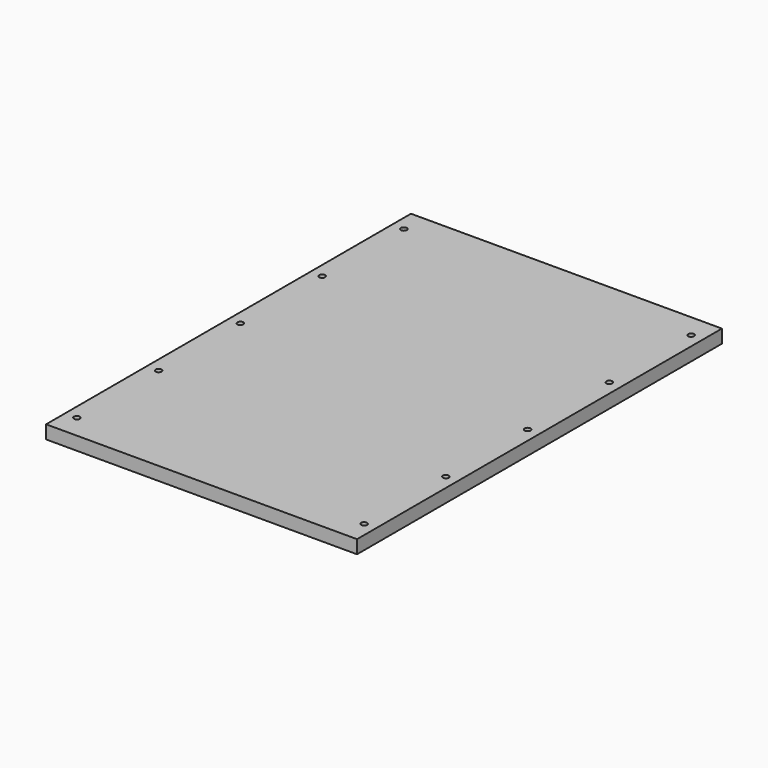
from build123d import *

# Parameters (mm, degrees)
SKETCH_W                        = 420
SKETCH_H                        = 616
PAD_DEPTH                       = 18
SKETCH014_R                     = 4
POCKET006_DEPTH                 = 9
SKETCH014_LINEARPATTERN_2_R     = 4
POCKET006_LINEARPATTERN_2_DEPTH = 9
LINEARPATTERN001_COUNT          = 5
LINEARPATTERN001_PITCH          = 138


with BuildPart() as part:
    # Sketch → Pad (new body)
    with BuildSketch(Plane.XY):
        with Locations((0, 308)):
            Rectangle(SKETCH_W, SKETCH_H)
    extrude(amount=PAD_DEPTH)

    # Sketch014 (on Face6 of Pad) → Pocket006 (cut)
    with BuildSketch(Plane.XY.offset(18)):
        with Locations((-194, 32)):
            Circle(SKETCH014_R)
    pocket006 = extrude(amount=-POCKET006_DEPTH, mode=Mode.SUBTRACT)

    # Sketch014 LinearPattern 2 → Pocket006 LinearPattern 2 (cut)
    with BuildSketch(Plane(origin=(388, 0, 18), x_dir=(1, 0, 0), z_dir=(0, 0, 1))):
        with Locations((-194, 32)):
            Circle(SKETCH014_LINEARPATTERN_2_R)
    pocket006_linearpattern_2 = extrude(amount=-POCKET006_LINEARPATTERN_2_DEPTH, mode=Mode.SUBTRACT)

    # LinearPattern001: Pocket006, Pocket006 LinearPattern 2 ×5
    with Locations(*[(0, i * LINEARPATTERN001_PITCH, 0) for i in range(1, LINEARPATTERN001_COUNT)]):
        add(pocket006, mode=Mode.SUBTRACT)
        add(pocket006_linearpattern_2, mode=Mode.SUBTRACT)


solid = part.part
